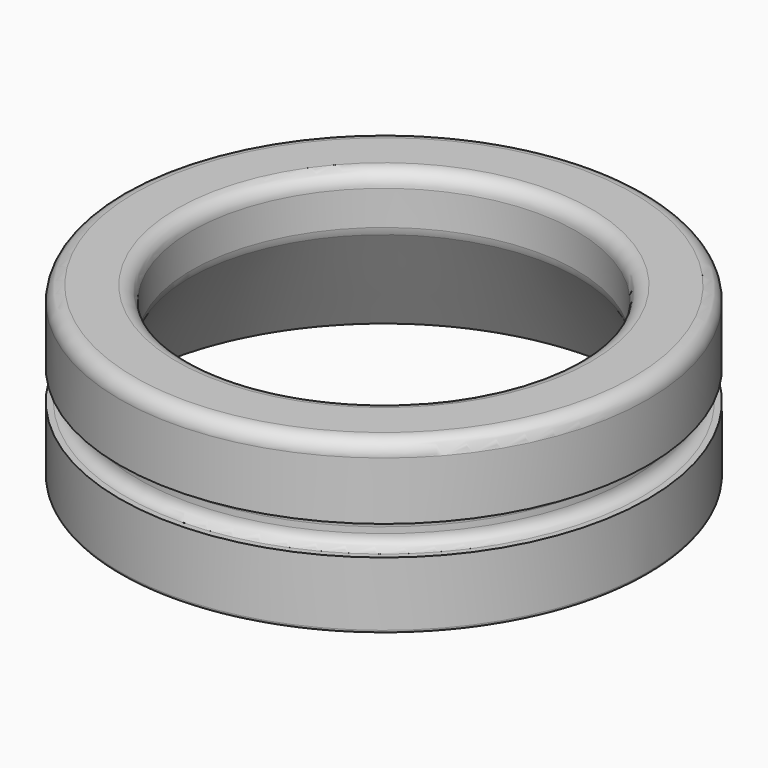
from build123d import *

# Parameters (mm, degrees)
F2_R = 1
F3_R = 0.8
F4_R = 0.2


with BuildPart() as f1:
    # F0 (on Front) → F1 (revolve)
    with BuildSketch(Plane.XZ):
        Polygon((13, 8.400446), (17.85, 0), (17.85, 5.079217), (16.65, 5.079217), (16.65, 7.079217), (17.85, 7.079217), (17.85, 12), (13, 12), align=None)
    revolve(axis=Axis((0, 0, 4.741906), (0, 0, 1)))

    # F2
    f2_edges = [f1.edges().sort_by_distance(p)[0] for p in [
        (-13, 0, 12),
        (-13, 0, 8.400446),
        (13, 0, 10.200223),
        (-17.85, 0, 12),
    ]]
    fillet(f2_edges, radius=F2_R)

    # F3
    f3_edges = [f1.edges().sort_by_distance(p)[0] for p in [
        (-16.65, 0, 7.079217),
        (-16.65, 0, 5.079217),
    ]]
    fillet(f3_edges, radius=F3_R)

    # F4
    f4_edges = [f1.edges().sort_by_distance(p)[0] for p in [
        (-17.85, 0, 0),
    ]]
    fillet(f4_edges, radius=F4_R)


solid = f1.part
